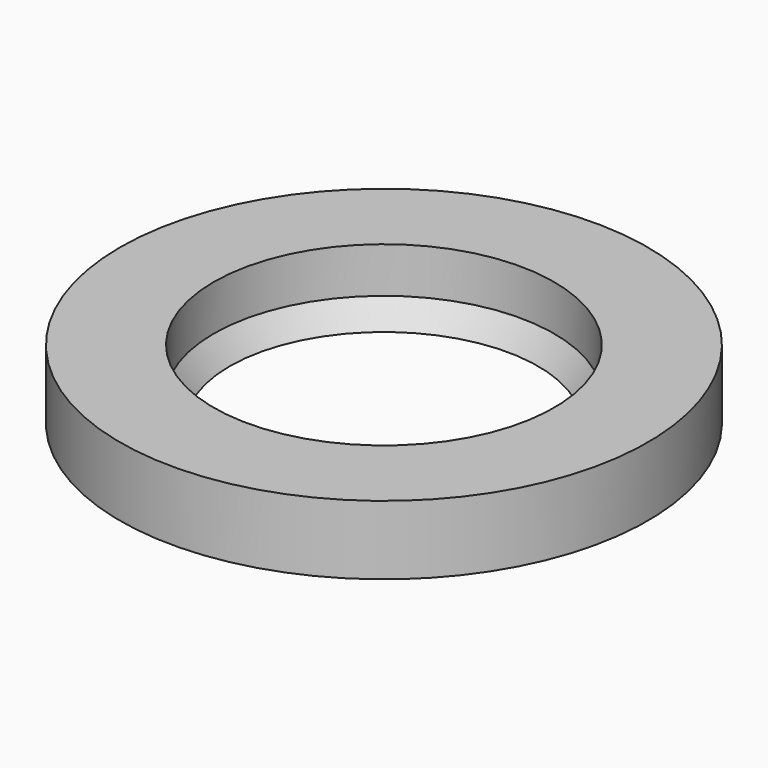
from build123d import *


with BuildPart() as f2:
    # F1 (on Front) → F2 (revolve)
    with BuildSketch(Plane.XZ):
        with BuildLine():
            Line((-40, 0), (-38, 0))
            Line((-38, 0), (-41.91589, 5.805546))
            Line((-41.91589, 5.805546), (-41.91589, 17))
            Line((-41.91589, 17), (-65, 17))
            Line((-65, 17), (-65, 0))
            Line((-65, 0), (-43, 0))
            Line((-43, 0), (-46.91589, 5.805546))
            Line((-46.91589, 5.805546), (-46.91589, 8.805546))
            Line((-46.91589, 8.805546), (-48.91589, 8.805546))
            Line((-48.91589, 8.805546), (-48.91589, 3))
            ThreePointArc((-48.91589, 3), (-49.501677, 1.585786), (-50.91589, 1))
            Line((-50.91589, 1), (-61, 1))
            ThreePointArc((-61, 1), (-62.414214, 1.585786), (-63, 3))
            Line((-63, 3), (-63, 13))
            ThreePointArc((-63, 13), (-62.414214, 14.414214), (-61, 15))
            Line((-61, 15), (-45.91589, 15))
            ThreePointArc((-45.91589, 15), (-44.501677, 14.414214), (-43.91589, 13))
            Line((-43.91589, 13), (-43.91589, 5.805546))
            Line((-43.91589, 5.805546), (-40, 0))
        make_face()
    revolve(axis=Axis((0, 0, 3.617086), (0, 0, -1)))


solid = f2.part
